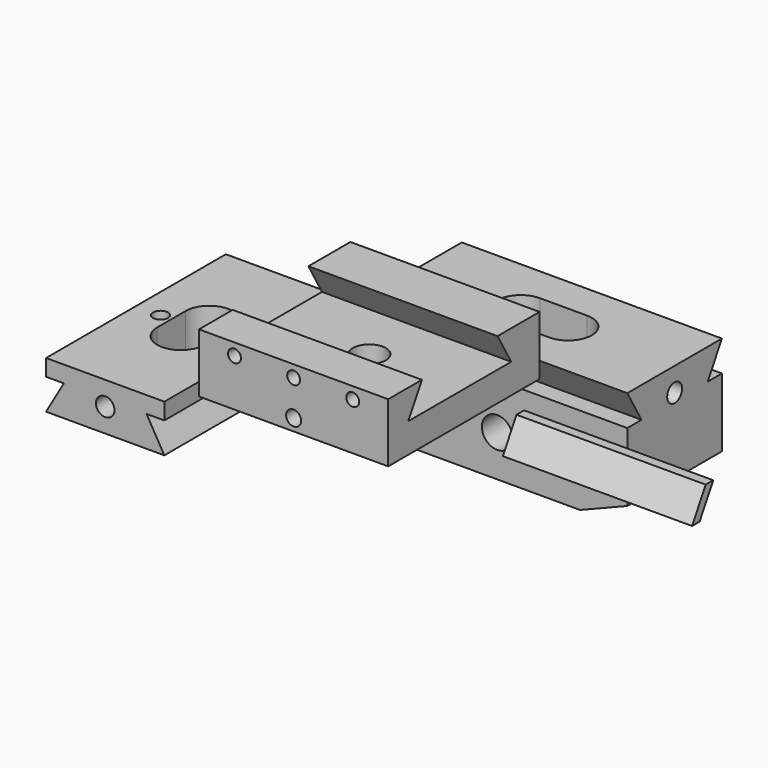
from build123d import *

# Parameters (mm, degrees)
F1_DEPTH  = 69.85
F3_D      = 4.9784
F5_D      = 8.255
F7_DEPTH  = 12.7
F9_DEPTH  = 60.325
F11_D     = 4.9784
F13_DEPTH = 25.5099957942
F15_D     = 4.0386
F17_DEPTH = 50.8
F19_D     = 8.89
F21_D     = 4.0386
F21_DEPTH = 25.4
F21_TIP   = 1.213317848
F22_D     = 3.4544
F22_DEPTH = 19.05
F22_TIP   = 1.0378064612
F25_DEPTH = 50.8
F26_SIZE2 = 5.08
F26_SIZE  = 12.7


with BuildPart() as f1:
    # F0 (on Right) → F1 (new body)
    with BuildSketch(Plane.YZ):
        Polygon((-15.875, -15.875), (15.875, -15.875), (15.875, 7.62), (11.1089735278, 7.62), (15.875, 15.875), (-15.875, 15.875), (-11.1089735278, 7.62), (-15.875, 7.62), align=None)
    extrude(amount=F1_DEPTH)

    # F3 (through all)
    with Locations(Plane.YZ.offset(69.85)):
        with Locations((0, 9.525)):
            Hole(F3_D / 2)

    # F5 (through all)
    with Locations(Plane.XZ.offset(15.875)):
        with Locations((34.925, -4.7752)):
            Hole(F5_D / 2)

    # F6 (on face) → F7 (cut)
    with BuildSketch(Plane.XY.offset(15.875)):
        with BuildLine():
            ThreePointArc((28.575, 6.35), (22.225, 0), (28.575, -6.35))
            Line((28.575, -6.35), (41.275, -6.35))
            ThreePointArc((41.275, -6.35), (47.625, 0), (41.275, 6.35))
            Line((41.275, 6.35), (28.575, 6.35))
        make_face()
    extrude(amount=-F7_DEPTH, mode=Mode.SUBTRACT)

    # F26
    f26_edges = [f1.edges().sort_by_distance(p)[0] for p in [
        (69.85, 0, -15.875),
        (0, 0, -15.875),
    ]]
    f26_side = f1.faces().sort_by_distance((34.925, 0, -15.875))[0]
    chamfer(f26_edges, length=F26_SIZE, length2=F26_SIZE2, reference=f26_side)


with BuildPart() as f9:
    # F8 (on Front) → F9 (new body)
    with BuildSketch(Plane.XZ):
        Polygon((-18.9051372717, 3.0660043058), (-50.6551372717, 3.0660043058), (-50.6551372717, -1.3789956942), (-45.8891107996, -1.3789956942), (-50.6551372717, -9.6339956942), (-18.9051372717, -9.6339956942), (-23.6711637439, -1.3789956942), (-18.9051372717, -1.3789956942), align=None)
    extrude(amount=F9_DEPTH)

    # F11 (through all)
    with Locations(Plane.XZ.offset(60.325)):
        with Locations((-34.7801372717, -3.2839956942)):
            Hole(F11_D / 2)

    # F12 (on face) → F13 (cut, through all)
    with BuildSketch(Plane(origin=(0, 0, -9.6339956942), x_dir=(1, 0, 0), z_dir=(0, 0, -1))):
        with BuildLine():
            ThreePointArc((-28.4301372717, 34.925), (-34.7801372717, 41.275), (-41.1301372717, 34.925))
            Line((-41.1301372717, 34.925), (-41.1301372717, 25.4))
            ThreePointArc((-41.1301372717, 25.4), (-34.7801372717, 19.05), (-28.4301372717, 25.4))
            Line((-28.4301372717, 25.4), (-28.4301372717, 34.925))
        make_face()
    extrude(amount=-F13_DEPTH, mode=Mode.SUBTRACT)

    # F15 (through all)
    with Locations(Plane(origin=(0, 0, -9.6339956942), x_dir=(1, 0, 0), z_dir=(0, 0, -1))):
        with Locations((-25.5091372717, 30.1625), (-44.0511372717, 30.1625)):
            Hole(F15_D / 2)


with BuildPart() as f17:
    # F16 (on Right) → F17 (new body)
    with BuildSketch(Plane.YZ):
        Polygon((-61.008209191, 31.1796985877), (-72.311209191, 31.1796985877), (-72.311209191, 15.3046985877), (-21.511209191, 15.3046985877), (-21.511209191, 31.1796985877), (-35.608209191, 31.1796985877), (-31.0328237777, 23.2548985877), (-65.5835946043, 23.2548985877), align=None)
    extrude(amount=F17_DEPTH)

    # F19 (through all)
    with Locations(Plane(origin=(0, 0, 15.3046985877), x_dir=(1, 0, 0), z_dir=(0, 0, -1))):
        with Locations((25.4, 46.911209191)):
            Hole(F19_D / 2)

    # F21
    with Locations(Plane.XZ.offset(72.311209191)):
        with Locations((25.4, 18.4796985877)):
            Hole(F21_D / 2, depth=F21_DEPTH)
            with Locations((0, 0, -(F21_DEPTH + F21_TIP / 2))):  # 118° drill point
                Cone(0, F21_D / 2, F21_TIP, mode=Mode.SUBTRACT)

    # F22
    with Locations(Plane.XZ.offset(72.311209191)):
        with Locations((9.525, 28.0046985877), (25.4, 28.0046985877), (41.275, 28.0046985877)):
            Hole(F22_D / 2, depth=F22_DEPTH)
            with Locations((0, 0, -(F22_DEPTH + F22_TIP / 2))):  # 118° drill point
                Cone(0, F22_D / 2, F22_TIP, mode=Mode.SUBTRACT)


with BuildPart() as f25:
    # F24 (on offset) → F25 (new body)
    with BuildSketch(Plane.YZ.offset(76.2)):
        Polygon((-58.468209191, 31.1796985877), (-61.008209191, 31.1796985877), (-65.5835946043, 23.2548985877), (-63.0435946043, 23.2548985877), align=None)
    extrude(amount=F25_DEPTH)


solid = Compound([f1.part, f9.part, f17.part, f25.part])
